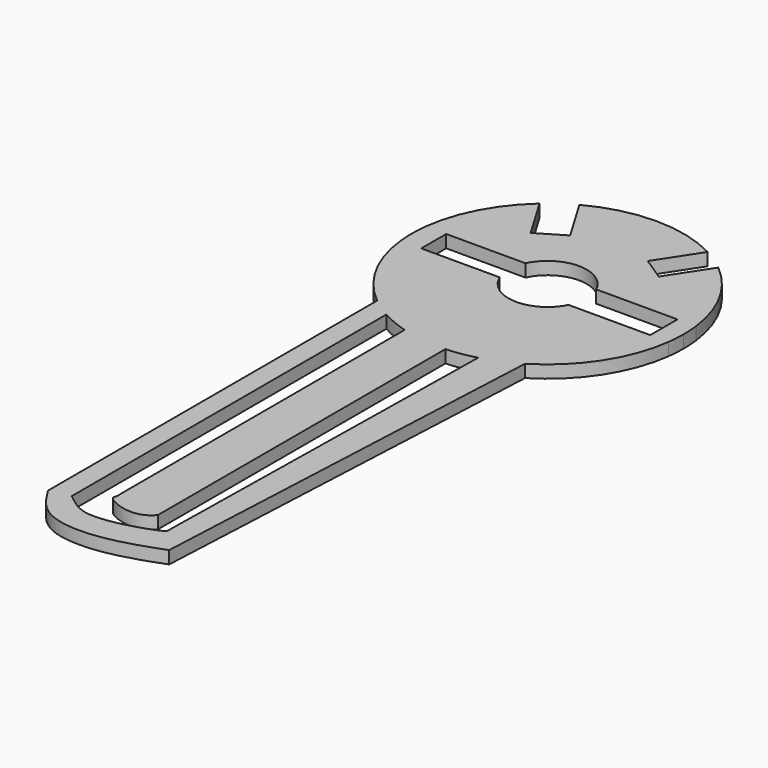
from build123d import *

# Parameters (mm, degrees)
F1_DEPTH = 2.54


with BuildPart() as f1:
    # F0 (on Top) → F1 (new body)
    with BuildSketch(Plane.XY):
        with BuildLine():
            Line((-17.1159264309, -61.3138160406), (-13.0736523365, 23.0865568339))
            ThreePointArc((-13.0736523365, 23.0865568339), (-16.4796766981, 21.3378348074), (-20.0963728567, 20.0814353591))
            Line((-20.0963728567, 20.0814353591), (-21.4248895645, -56.5471537411))
            add(Edge.make_bspline(
                [(-40.5384023351, -56.5471537411), (-39.0896691197, -57.4965649401), (-35.7119585286, -61.6788600498), (-23.9624212357, -57.9964701236), (-21.4248895645, -56.5471537411)],
                knots=[0, 0, 0, 0, 0.4021142555, 1, 1, 1, 1], degree=3))
            Line((-40.5384023351, -56.5471537411), (-40.5384023351, 22.5727239757))
            ThreePointArc((-40.5384023351, 22.5727239757), (-42.6442434651, 23.8699001593), (-44.6244072494, 25.3518530274))
            add(Edge.make_bspline(
                [(-44.6244072494, 25.3518530274), (-44.6244072494, -1.9093834032), (-44.6244072494, -30.1582468137), (-44.6244072494, -57.4194832443)],
                knots=[0, 0, 0, 0, 82.7713362717, 82.7713362717, 82.7713362717, 82.7713362717], degree=3))
            add(Edge.make_bspline(
                [(-44.6244072494, -57.4194832443), (-43.2058624137, -59.7061717245), (-39.9582329042, -64.8059149321), (-28.1728136888, -65.3818875584), (-20.4774261937, -62.5923179822), (-17.1159264309, -61.3138160406)],
                knots=[0, 0, 0, 0, 0.2960473312, 0.6402667795, 1, 1, 1, 1], degree=3))
        make_face()
        with BuildLine():
            Line((-50.3076799214, 43.5544437304), (-50.3076799214, 49.825878452))
            Line((-50.3076799214, 49.825878452), (-54.4210394787, 49.825878452))
            ThreePointArc((-54.4210394787, 49.825878452), (-54.6226132256, 46.691389625), (-54.4637968628, 43.5544437304))
            Line((-54.4637968628, 43.5544437304), (-50.3076799214, 43.5544437304))
        make_face()
        with BuildLine():
            ThreePointArc((-0.1008648303, 42.9929857768), (0.068721218, 44.7452351768), (0.125327938, 46.5047615525))
            ThreePointArc((0.125327938, 46.5047615525), (0.0747286896, 48.1683950998), (-0.076881998, 49.825878452))
            Line((-0.076881998, 49.825878452), (-3.7968070246, 49.825878452))
            Line((-3.7968070246, 49.825878452), (-3.7968070246, 42.9929857768))
            Line((-3.7968070246, 42.9929857768), (-0.1008648303, 42.9929857768))
        make_face()
        with BuildLine():
            Line((-3.7968070246, 49.825878452), (-0.076881998, 49.825878452))
            ThreePointArc((-0.076881998, 49.825878452), (-3.236730066, 59.6487510029), (-9.8084146157, 67.6040276885))
            Line((-9.8084146157, 67.6040276885), (-15.1872234419, 59.3776144087))
            Line((-15.1872234419, 59.3776144087), (-19.8417848233, 62.4209815468))
            Line((-19.8417848233, 62.4209815468), (-14.4327960403, 70.6935524063))
            ThreePointArc((-14.4327960403, 70.6935524063), (-27.3113565295, 73.8789791176), (-40.1752617833, 70.6348759706))
            Line((-40.1752617833, 70.6348759706), (-34.7966371696, 61.5968285634))
            Line((-34.7966371696, 61.5968285634), (-40.1752617833, 58.3959598988))
            Line((-40.1752617833, 58.3959598988), (-45.3300042556, 67.0578038056))
            ThreePointArc((-45.3300042556, 67.0578038056), (-51.4604472967, 59.2779991675), (-54.4210394787, 49.825878452))
            Line((-54.4210394787, 49.825878452), (-50.3076799214, 49.825878452))
            Line((-50.3076799214, 49.825878452), (-34.3632135618, 49.825878452))
            ThreePointArc((-34.3632135618, 49.825878452), (-27.2489607383, 54.3560296473), (-20.1347079149, 49.825878452))
            Line((-20.1347079149, 49.825878452), (-3.7968070246, 49.825878452))
        make_face()
        with BuildLine():
            ThreePointArc((-13.0736523365, 23.0865568339), (-4.3148722617, 31.55888365), (-0.1008648303, 42.9929857768))
            Line((-0.1008648303, 42.9929857768), (-3.7968070246, 42.9929857768))
            Line((-3.7968070246, 42.9929857768), (-20.2268640716, 42.9929857768))
            ThreePointArc((-20.2268640716, 42.9929857768), (-27.5570302355, 38.6595398297), (-34.5248136398, 43.5544437304))
            Line((-34.5248136398, 43.5544437304), (-50.3076799214, 43.5544437304))
            Line((-50.3076799214, 43.5544437304), (-54.4637968628, 43.5544437304))
            ThreePointArc((-54.4637968628, 43.5544437304), (-51.3302170065, 33.4876659826), (-44.6244072494, 25.3518530274))
            ThreePointArc((-44.6244072494, 25.3518530274), (-42.6442434651, 23.8699001593), (-40.5384023351, 22.5727239757))
            ThreePointArc((-40.5384023351, 22.5727239757), (-37.8424582665, 21.2633374514), (-35.0195281208, 20.2565242196))
            ThreePointArc((-35.0195281208, 20.2565242196), (-30.5282095898, 19.3275982071), (-25.944840163, 19.1615548997))
            ThreePointArc((-25.944840163, 19.1615548997), (-22.9956650166, 19.4629207122), (-20.0963728567, 20.0814353591))
            ThreePointArc((-20.0963728567, 20.0814353591), (-16.4796766981, 21.3378348074), (-13.0736523365, 23.0865568339))
        make_face()
        with BuildLine():
            Line((-25.944840163, -53.0968643725), (-25.944840163, 19.1615548997))
            ThreePointArc((-25.944840163, 19.1615548997), (-30.5282095898, 19.3275982071), (-35.0195281208, 20.2565242196))
            Line((-35.0195281208, 20.2565242196), (-35.0195281208, -51.2205958366))
            add(Edge.make_bspline(
                [(-35.0195281208, -51.2205958366), (-34.829377456, -52.5195475688), (-36.644732065, -52.9287098402), (-28.7908467818, -56.628709604), (-25.944840163, -53.0968643725)],
                knots=[0, 0, 0, 0, 0.3125763508, 1, 1, 1, 1], degree=3))
        make_face()
    extrude(amount=F1_DEPTH)


solid = f1.part
